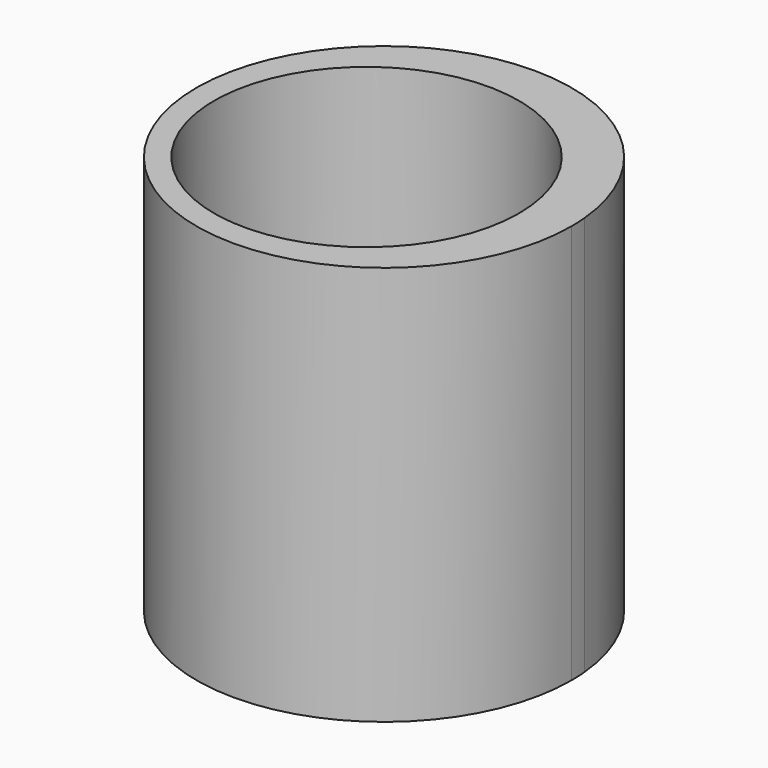
from build123d import *

# Parameters (mm, degrees)
F1_DEPTH = 108.712
F2_R     = 41.4655911313
F3_DEPTH = 99.314


with BuildPart() as f1:
    # F0 (on Top) → F1 (new body)
    with BuildSketch(Plane.XY):
        with BuildLine():
            ThreePointArc((-4.2924791393, 38.0172021687), (-4.3448669429, 40.3282052906), (-4.5019227254, 42.6344605654))
            ThreePointArc((-4.5019227254, 42.6344605654), (-106.2386395817, 35.7061990468), (-4.2924791393, 38.0172021687))
        make_face()
        with BuildLine():
            ThreePointArc((-4.5019227254, 42.6344605654), (-4.4697059504, 42.161379566), (-4.4589596662, 41.6873246431))
            ThreePointArc((-4.4589596662, 41.6873246431), (-25.3711247631, 41.2132697203), (-4.5019227254, 42.6344605654))
        make_face(mode=Mode.SUBTRACT)
        with BuildLine():
            ThreePointArc((-4.5019227254, 42.6344605654), (-25.3711247631, 41.2132697203), (-4.4589596662, 41.6873246431))
            ThreePointArc((-4.4589596662, 41.6873246431), (-4.4697059504, 42.161379566), (-4.5019227254, 42.6344605654))
        make_face()
    extrude(amount=-F1_DEPTH)

    # F2 (on Top) → F3 (cut)
    with BuildSketch(Plane.XY):
        with Locations((-58.167796582, 35.6810353696)):
            Circle(F2_R)
    extrude(amount=-F3_DEPTH, mode=Mode.SUBTRACT)


solid = f1.part
